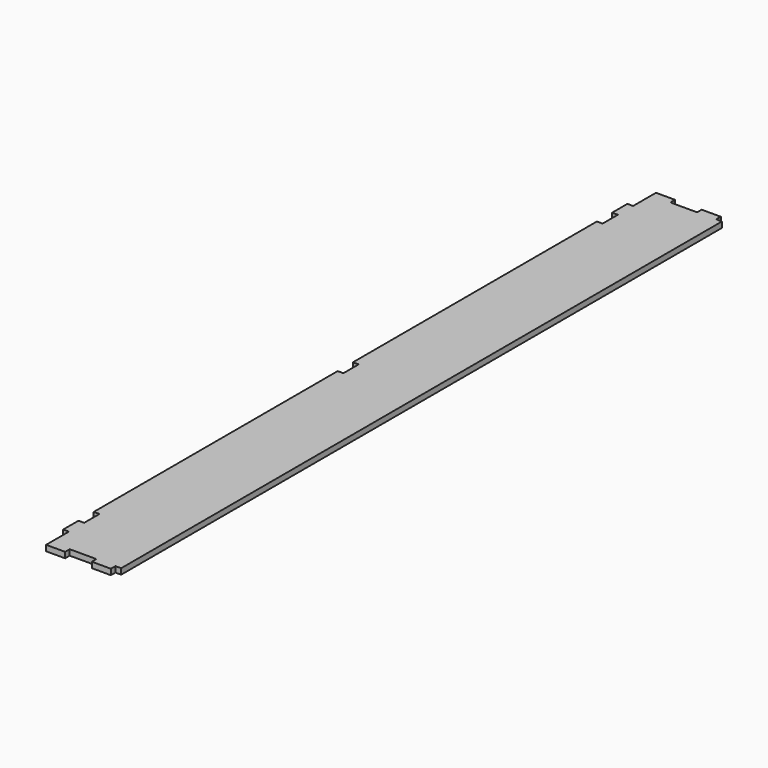
from build123d import *

# Parameters (mm, degrees)
PAD004_DEPTH           = 3
SKETCH007_W            = 3
SKETCH007_H            = 10
POCKET002_DEPTH        = 3
LINEARPATTERN002_COUNT = 3
LINEARPATTERN002_PITCH = 170


with BuildPart() as part:
    # Sketch006 → Pad004 (new body)
    with BuildSketch(Plane.XY):
        Polygon((40, 0), (37, 0), (37, -3), (27, -3), (27, 0), (13, 0), (13, -3), (3, -3), (3, 0), (3, 12), (0, 12), (0, 382), (3, 382), (3, 397), (13, 397), (13, 394), (27, 394), (27, 397), (37, 397), (37, 394), (40, 394), align=None)
    extrude(amount=PAD004_DEPTH)

    # Sketch007 → Pocket002 (cut)
    with BuildSketch(Plane(origin=(0, 0, 0), x_dir=(1, 0, 0), z_dir=(0, 0, -1))):
        with Locations((1.5, -27)):
            Rectangle(SKETCH007_W, SKETCH007_H)
    pocket002 = extrude(amount=-POCKET002_DEPTH, mode=Mode.SUBTRACT)

    # LinearPattern002: Pocket002 ×3
    with Locations(*[(0, i * LINEARPATTERN002_PITCH, 0) for i in range(1, LINEARPATTERN002_COUNT)]):
        add(pocket002, mode=Mode.SUBTRACT)


with BuildPart() as part_1:
    # Body004 placement: moved
    add(part.part.moved(Location((0, 0, 13))))


solid = part_1.part
